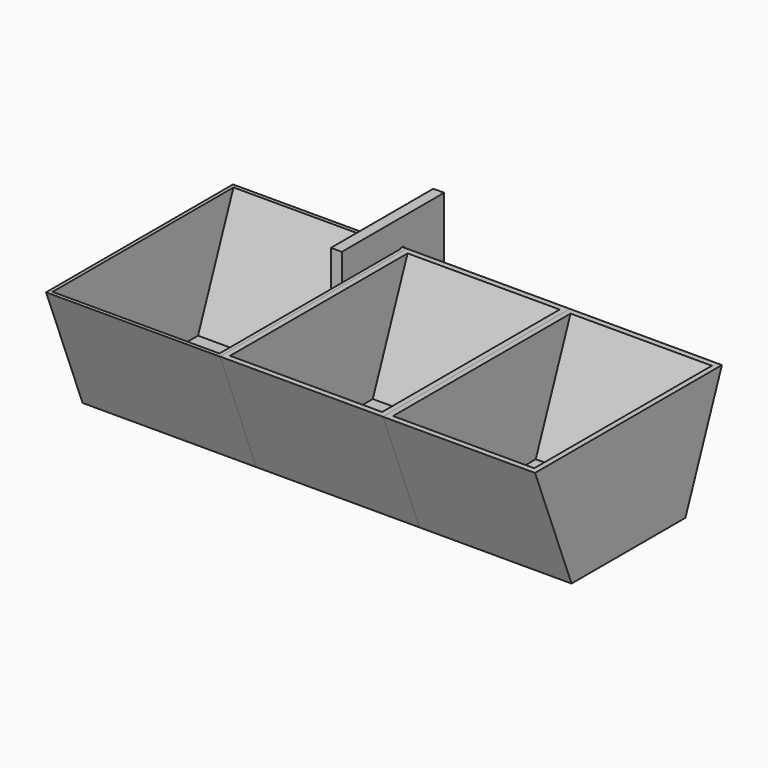
from build123d import *

# Parameters (mm, degrees)
F1_DEPTH  = 80
F3_T      = -1.6
F4_DEPTH  = 75
F5_DEPTH  = 70
F6_T      = -2.5
F7_T      = -2.5
F9_DEPTH  = 5
F10_R     = 3
F12_DEPTH = 5


with BuildPart() as f1:
    # F0 (on Right) → F1 (new body)
    with BuildSketch(Plane.YZ):
        Polygon((0, 53.3730685711), (0, 0), (32.7537469566, 0), (53.7497512996, 53.3730685711), align=None)
    extrude(amount=F1_DEPTH)

    # F2: F1 across face


with BuildPart() as f1_1:
    add(f1.part)
    add(f1.part.mirror(Plane(origin=(40, 0, 26.6865342855), x_dir=(1, 0, 0), z_dir=(0, -1, 0))))

    # F3
    f3_openings = [f1_1.faces().sort_by_distance(p)[0] for p in [
        (40, 0, 53.373069),
    ]]
    offset(amount=F3_T, openings=f3_openings)


with BuildPart() as f4:
    # F4 (new): a face of the model
    f4_faces = [f1_1.part.faces().sort_by_distance(p)[0] for p in [
        (80, 0, 28.8456399905),
    ]]
    extrude(f4_faces, amount=F4_DEPTH)


with BuildPart() as f5:
    # F5 (new): a face of the model
    f5_faces = [f4.part.faces().sort_by_distance(p)[0] for p in [
        (155, 0, 28.8456399905),
    ]]
    extrude(f5_faces, amount=F5_DEPTH)

    # F7
    f7_openings = [f5.faces().sort_by_distance(p)[0] for p in [
        (190, 0, 53.373069),
    ]]
    offset(amount=F7_T, openings=f7_openings)


with BuildPart() as f4_1:
    add(f4.part)

    # F6
    f6_openings = [f4_1.faces().sort_by_distance(p)[0] for p in [
        (117.5, 0, 53.373069),
    ]]
    offset(amount=F6_T, openings=f6_openings)


with BuildPart() as f1_2:
    add(f1_1.part)

    # F8 (on face) → F9 (join)
    with BuildSketch(Plane(origin=(0, 0, 0), x_dir=(0, -1, 0), z_dir=(-1, 0, 0))):
        Polygon((-49.1129162171, 41.5859631405), (-53.7497512996, 53.3730685711), (-63.1975457742, 36.0453234271), align=None)
    extrude(amount=-F9_DEPTH)

    # F10
    f10_edges = [f1_2.edges().sort_by_distance(p)[0] for p in [
        (2.5, 63.197546, 36.045323),
    ]]
    fillet(f10_edges, radius=F10_R)


with BuildPart() as f12:
    # F11 (on face) → F12 (new body)
    with BuildSketch(Plane(origin=(78.4, 0, 0), x_dir=(0, -1, 0), z_dir=(-1, 0, 0))):
        with BuildLine():
            Line((-51.826039835, 53.6730685711), (-51.7080252357, 53.3730685711))
            Line((-51.7080252357, 53.3730685711), (-18.35501194, 53.3730685711))
            Line((-18.35501194, 53.3730685711), (-18.35501194, 65.9478157759))
            Line((-18.35501194, 65.9478157759), (-77.2292464972, 65.9478157759))
            Line((-77.2292464972, 65.9478157759), (-77.2292464972, 21.7295140028))
            Line((-77.2292464972, 21.7295140028), (-41.6241243857, 21.7295140028))
            Line((-41.6241243857, 21.7295140028), (-49.2822691324, 41.1969649527))
            Line((-49.2822691324, 41.1969649527), (-55.4018303725, 38.7896397265))
            ThreePointArc((-55.4018303725, 38.7896397265), (-59.0838597197, 39.6766703304), (-59.5071949999, 43.4403056271))
            Line((-59.5071949999, 43.4403056271), (-53.9278746441, 53.6730685711))
            Line((-53.9278746441, 53.6730685711), (-51.826039835, 53.6730685711))
        make_face()
        Polygon((-18.35501194, 53.3730685711), (-51.7080252357, 53.3730685711), (-39.2600205222, 21.7295140028), (-18.35501194, 21.7295140028), align=None)
    extrude(amount=F12_DEPTH)


solid = Compound([f5.part, f4_1.part, f1_2.part, f12.part])
